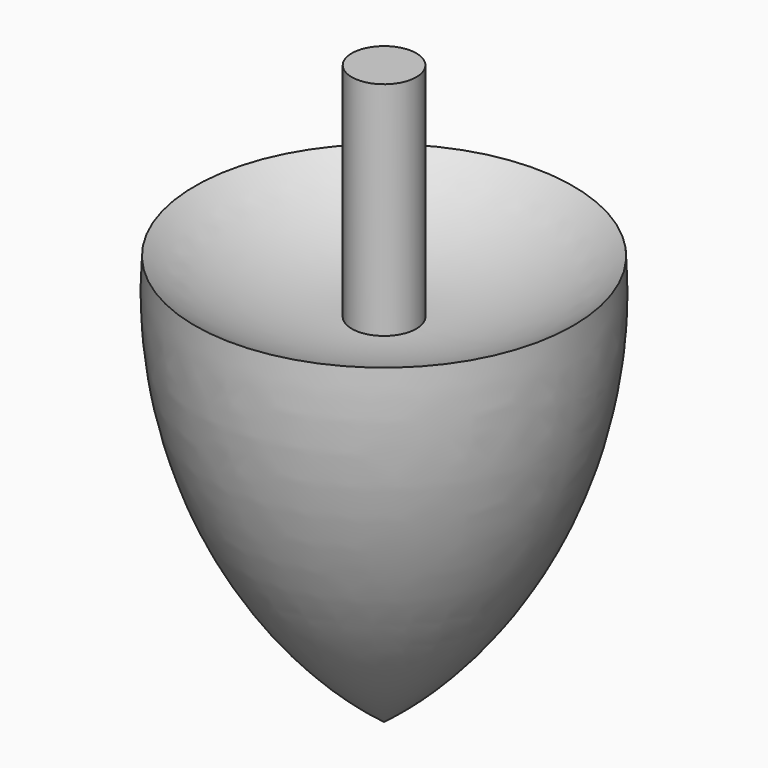
from build123d import *

# Parameters (mm, degrees)
F2_R     = 4.81389
F3_DEPTH = 33.02


with BuildPart() as f1:
    # F0 (on Front) → F1 (revolve)
    with BuildSketch(Plane.XZ):
        with BuildLine():
            ThreePointArc((28.182628, 8.001001), (14.854054, 1.313833), (0, 0))
            Line((0, 0), (0, -53.140968))
            ThreePointArc((0, -53.140968), (21.843149, -26.143096), (28.182628, 8.001001))
        make_face()
    revolve(axis=Axis((0, 0, -26.570484), (0, 0, -1)))


with BuildPart() as f3:
    # F2 (on Top) → F3 (new body)
    with BuildSketch(Plane.XY):
        Circle(F2_R)
    extrude(amount=F3_DEPTH)


solid = Compound([f1.part, f3.part])
